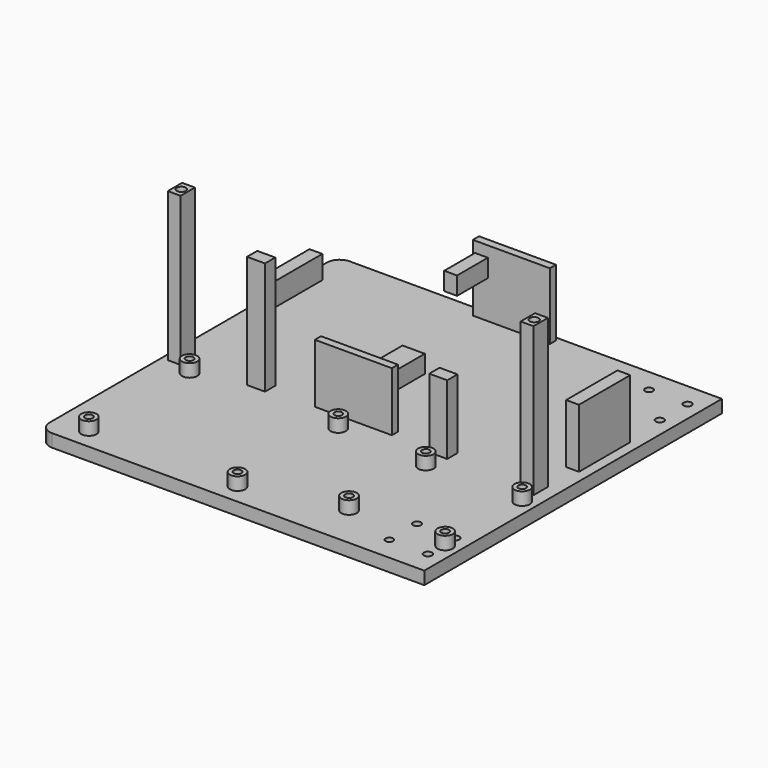
from build123d import *

# Parameters (mm, degrees)
SKETCH_W        = 150
SKETCH_H        = 145
PAD_DEPTH       = 5
SKETCH001_R     = 1.519453
SKETCH001_R_2   = 1.575641
SKETCH001_R_3   = 1.584812
SKETCH001_R_4   = 1.460672
POCKET_DEPTH    = 5
SKETCH003_R     = 3
SKETCH003_R_2   = 1.5
PAD002_DEPTH    = 5
SKETCH004_W     = 5
SKETCH004_H     = 25
SKETCH004_W_2   = 30
SKETCH004_H_2   = 3
PAD003_DEPTH    = 9
SKETCH005_W     = 7
SKETCH005_H     = 5
PAD004_DEPTH    = 27
PAD003_FACE49_W = 3
PAD003_FACE49_H = 30
PAD006_DEPTH    = 17
SKETCH008_W     = 5
SKETCH008_H     = 7
PAD007_DEPTH    = 15
PAD007_FACE50_W = 5
PAD007_FACE50_H = 7
PAD008_DEPTH    = 17
PAD008_FACE55_W = 3
PAD008_FACE55_H = 30
PAD009_DEPTH    = 14
SKETCH009_W     = 8.674523
SKETCH009_H     = 6.940131
PAD010_DEPTH    = 14
PAD010_FACE69_W = 25
PAD010_FACE69_H = 5
PAD011_DEPTH    = 14
SKETCH012_W     = 5
SKETCH012_H     = 7
SKETCH012_R     = 1.75
PAD013_DEPTH    = 58
FILLET001_R     = 5


with BuildPart() as part:
    # Sketch → Pad (new body)
    with BuildSketch(Plane.XY):
        Rectangle(SKETCH_W, SKETCH_H)
    extrude(amount=-PAD_DEPTH)

    # Sketch001 (on Face5 of Pad) → Pocket (cut)
    with BuildSketch(Plane.XY):
        with Locations((54, 63.26)):
            Circle(SKETCH001_R)
        with Locations((69, 63.26)):
            Circle(SKETCH001_R_2)
        with Locations((69, 49.76)):
            Circle(SKETCH001_R_3)
        with Locations((54, 49.76)):
            Circle(SKETCH001_R_4)
        with Locations((54, -49.76)):
            Circle(SKETCH001_R)
        with Locations((69, -49.76)):
            Circle(SKETCH001_R_2)
        with Locations((69, -63.26)):
            Circle(SKETCH001_R_3)
        with Locations((54, -63.26)):
            Circle(SKETCH001_R_4)
    extrude(amount=-POCKET_DEPTH, mode=Mode.SUBTRACT)

    # Sketch003 (on Face4 of Pocket) → Pad002 (join)
    with BuildSketch(Plane.XY):
        with Locations((69.767639, -18.269884)):
            Circle(SKETCH003_R)
        with Locations((69.767639, -18.269884)):
            Circle(SKETCH003_R_2, mode=Mode.SUBTRACT)
        with Locations((32.256084, -18.291882)):
            Circle(SKETCH003_R)
        with Locations((32.256084, -18.291882)):
            Circle(SKETCH003_R_2, mode=Mode.SUBTRACT)
        with Locations((32.284943, -55.757919)):
            Circle(SKETCH003_R)
        with Locations((32.284943, -55.757919)):
            Circle(SKETCH003_R_2, mode=Mode.SUBTRACT)
        with Locations((69.736526, -55.773216)):
            Circle(SKETCH003_R)
        with Locations((69.736526, -55.773216)):
            Circle(SKETCH003_R_2, mode=Mode.SUBTRACT)
        with Locations((-62.054475, -15.516004)):
            Circle(SKETCH003_R)
        with Locations((-62.054475, -15.516004)):
            Circle(SKETCH003_R_2, mode=Mode.SUBTRACT)
        with Locations((-4.044475, -15.613503)):
            Circle(SKETCH003_R)
        with Locations((-4.044475, -15.613503)):
            Circle(SKETCH003_R_2, mode=Mode.SUBTRACT)
        with Locations((-4.044475, -64.673503)):
            Circle(SKETCH003_R)
        with Locations((-4.044475, -64.673503)):
            Circle(SKETCH003_R_2, mode=Mode.SUBTRACT)
        with Locations((-62.064475, -64.556004)):
            Circle(SKETCH003_R)
        with Locations((-62.064475, -64.556004)):
            Circle(SKETCH003_R_2, mode=Mode.SUBTRACT)
    extrude(amount=PAD002_DEPTH)

    # Sketch004 (on Face4 of Pad002) → Pad003 (join)
    with BuildSketch(Plane.XY):
        with Locations((68.561538, 20.263053)):
            Rectangle(SKETCH004_W, SKETCH004_H)
        with Locations((-71.331904, 45.140981)):
            Rectangle(SKETCH004_W, SKETCH004_H)
        with Locations((-3.448665, 69.481535)):
            Rectangle(SKETCH004_W_2, SKETCH004_H_2)
        with Locations((-3.448665, -7.480191)):
            Rectangle(SKETCH004_W_2, SKETCH004_H_2)
    extrude(amount=PAD003_DEPTH)

    # Sketch005 (on Face4 of Pad003) → Pad004 (join)
    with BuildSketch(Plane.XY):
        with Locations((-40.03, -8.180035)):
            Rectangle(SKETCH005_W, SKETCH005_H)
        with Locations((30.99, -8.180035)):
            Rectangle(SKETCH005_W, SKETCH005_H)
    extrude(amount=PAD004_DEPTH)

    # Pad003 Face49 → Pad006 (add)
    with BuildSketch(Plane(origin=(-3.448665, 69.481535, 9), x_dir=(0, 1, 0), z_dir=(0, 0, 1))):
        Rectangle(PAD003_FACE49_W, PAD003_FACE49_H)
    extrude(amount=PAD006_DEPTH)

    # Sketch008 (on Face60 of Pad006) → Pad007 (join)
    with BuildSketch(Plane.XZ.offset(-67.981535)):
        with Locations((-15.105862, 18.267392)):
            Rectangle(SKETCH008_W, SKETCH008_H)
    extrude(amount=PAD007_DEPTH)

    # Pad007 Face50 → Pad008 (add)
    with BuildSketch(Plane(origin=(-40.03, -8.180035, 27), x_dir=(0, 1, 0), z_dir=(0, 0, 1))):
        Rectangle(PAD007_FACE50_W, PAD007_FACE50_H)
    extrude(amount=PAD008_DEPTH)

    # Pad008 Face55 → Pad009 (add)
    with BuildSketch(Plane(origin=(-3.448665, -7.480191, 9), x_dir=(0, 1, 0), z_dir=(0, 0, 1))):
        Rectangle(PAD008_FACE55_W, PAD008_FACE55_H)
    extrude(amount=PAD009_DEPTH)

    # Sketch009 (on Face58 of Pad009) → Pad010 (join)
    with BuildSketch(Plane(origin=(0, -5.980191, 0), x_dir=(-1, 0, 0), z_dir=(0, 1, 0))):
        with Locations((-6.437226, 17.328186)):
            Rectangle(SKETCH009_W, SKETCH009_H)
    extrude(amount=PAD010_DEPTH)

    # Pad010 Face69 → Pad011 (add)
    with BuildSketch(Plane(origin=(68.561538, 20.263053, 9), x_dir=(0, 1, 0), z_dir=(0, 0, 1))):
        Rectangle(PAD010_FACE69_W, PAD010_FACE69_H)
    extrude(amount=PAD011_DEPTH)

    # Sketch012 (on Face4 of Pad011) → Pad013 (join)
    with BuildSketch(Plane.XY):
        with Locations((-70.126444, -9.436971)):
            Rectangle(SKETCH012_W, SKETCH012_H)
        with Locations((-70.126444, -9.436971)):
            Circle(SKETCH012_R, mode=Mode.SUBTRACT)
        with Locations((67.407579, -9.436971)):
            Rectangle(SKETCH012_W, SKETCH012_H)
        with Locations((67.407579, -9.436971)):
            Circle(SKETCH012_R, mode=Mode.SUBTRACT)
    extrude(amount=PAD013_DEPTH)

    # Fillet001
    fillet001_edges = [part.edges().sort_by_distance(p)[0] for p in [
        (-75, 72.5, -2.5),
        (-75, -72.5, -2.5),
    ]]
    fillet(fillet001_edges, radius=FILLET001_R)


with BuildPart() as part_1:
    # Body001 placement: moved
    add(part.part.moved(Location((11, 0, 0))))


solid = part_1.part
